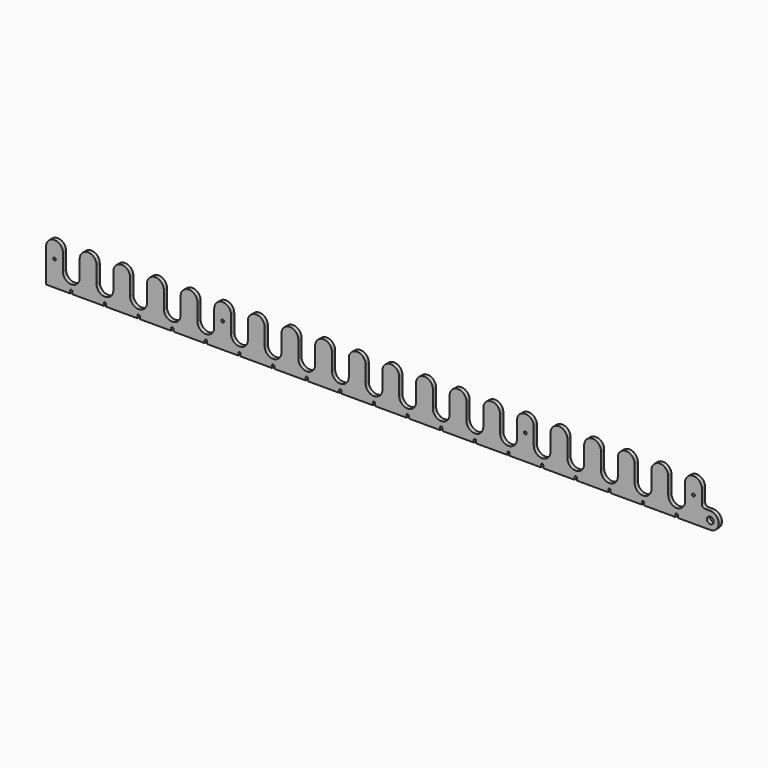
from build123d import *

# Parameters (mm, degrees)
F0_R     = 10
F0_R_2   = 4
F1_DEPTH = 12


with BuildPart() as f1:
    # F0 (on Front) → F1 (new body)
    with BuildSketch(Plane.XZ):
        with BuildLine():
            Line((-29.584797, 29.326556), (-29.584797, -70.673444))
            Line((-29.584797, -70.673444), (20.415203, -70.673444))
            Line((20.415203, -70.673444), (42.034195, -70.673444))
            Line((42.034195, -70.673444), (42.034195, -63.356569))
            ThreePointArc((42.034195, -63.356569), (45.534195, -59.856569), (49.034195, -63.356569))
            Line((49.034195, -63.356569), (49.034195, -70.673444))
            Line((49.034195, -70.673444), (70.415203, -70.673444))
            Line((70.415203, -70.673444), (120.415203, -70.673444))
            Line((120.415203, -70.673444), (142.034195, -70.673444))
            Line((142.034195, -70.673444), (142.034195, -63.356569))
            ThreePointArc((142.034195, -63.356569), (145.534195, -59.856569), (149.034195, -63.356569))
            Line((149.034195, -63.356569), (149.034195, -70.673444))
            Line((149.034195, -70.673444), (170.415203, -70.673444))
            Line((170.415203, -70.673444), (220.415203, -70.673444))
            Line((220.415203, -70.673444), (242.034195, -70.673444))
            Line((242.034195, -70.673444), (242.034195, -63.356569))
            ThreePointArc((242.034195, -63.356569), (245.534195, -59.856569), (249.034195, -63.356569))
            Line((249.034195, -63.356569), (249.034195, -70.673444))
            Line((249.034195, -70.673444), (270.415203, -70.673444))
            Line((270.415203, -70.673444), (320.415203, -70.673444))
            Line((320.415203, -70.673444), (342.034195, -70.673444))
            Line((342.034195, -70.673444), (342.034195, -63.356569))
            ThreePointArc((342.034195, -63.356569), (345.534195, -59.856569), (349.034195, -63.356569))
            Line((349.034195, -63.356569), (349.034195, -70.673444))
            Line((349.034195, -70.673444), (370.415203, -70.673444))
            Line((370.415203, -70.673444), (420.415203, -70.673444))
            Line((420.415203, -70.673444), (442.034195, -70.673444))
            Line((442.034195, -70.673444), (442.034195, -63.356569))
            ThreePointArc((442.034195, -63.356569), (445.534195, -59.856569), (449.034195, -63.356569))
            Line((449.034195, -63.356569), (449.034195, -70.673444))
            Line((449.034195, -70.673444), (470.415203, -70.673444))
            Line((470.415203, -70.673444), (520.415203, -70.673444))
            Line((520.415203, -70.673444), (542.034195, -70.673444))
            Line((542.034195, -70.673444), (542.034195, -63.356569))
            ThreePointArc((542.034195, -63.356569), (545.534195, -59.856569), (549.034195, -63.356569))
            Line((549.034195, -63.356569), (549.034195, -70.673444))
            Line((549.034195, -70.673444), (570.415203, -70.673444))
            Line((570.415203, -70.673444), (620.415203, -70.673444))
            Line((620.415203, -70.673444), (642.034195, -70.673444))
            Line((642.034195, -70.673444), (642.034195, -63.356569))
            ThreePointArc((642.034195, -63.356569), (645.534195, -59.856569), (649.034195, -63.356569))
            Line((649.034195, -63.356569), (649.034195, -70.673444))
            Line((649.034195, -70.673444), (670.415203, -70.673444))
            Line((670.415203, -70.673444), (720.415203, -70.673444))
            Line((720.415203, -70.673444), (742.034195, -70.673444))
            Line((742.034195, -70.673444), (742.034195, -63.356569))
            ThreePointArc((742.034195, -63.356569), (745.534195, -59.856569), (749.034195, -63.356569))
            Line((749.034195, -63.356569), (749.034195, -70.673444))
            Line((749.034195, -70.673444), (770.415203, -70.673444))
            Line((770.415203, -70.673444), (820.415203, -70.673444))
            Line((820.415203, -70.673444), (842.034195, -70.673444))
            Line((842.034195, -70.673444), (842.034195, -63.356569))
            ThreePointArc((842.034195, -63.356569), (845.534195, -59.856569), (849.034195, -63.356569))
            Line((849.034195, -63.356569), (849.034195, -70.673444))
            Line((849.034195, -70.673444), (870.415203, -70.673444))
            Line((870.415203, -70.673444), (920.415203, -70.673444))
            Line((920.415203, -70.673444), (942.034195, -70.673444))
            Line((942.034195, -70.673444), (942.034195, -63.356569))
            ThreePointArc((942.034195, -63.356569), (945.534195, -59.856569), (949.034195, -63.356569))
            Line((949.034195, -63.356569), (949.034195, -70.673444))
            Line((949.034195, -70.673444), (970.415203, -70.673444))
            Line((970.415203, -70.673444), (1020.415203, -70.673444))
            Line((1020.415203, -70.673444), (1042.034195, -70.673444))
            Line((1042.034195, -70.673444), (1042.034195, -63.356569))
            ThreePointArc((1042.034195, -63.356569), (1045.534195, -59.856569), (1049.034195, -63.356569))
            Line((1049.034195, -63.356569), (1049.034195, -70.673444))
            Line((1049.034195, -70.673444), (1070.415203, -70.673444))
            Line((1070.415203, -70.673444), (1120.415203, -70.673444))
            Line((1120.415203, -70.673444), (1142.034195, -70.673444))
            Line((1142.034195, -70.673444), (1142.034195, -63.356569))
            ThreePointArc((1142.034195, -63.356569), (1145.534195, -59.856569), (1149.034195, -63.356569))
            Line((1149.034195, -63.356569), (1149.034195, -70.673444))
            Line((1149.034195, -70.673444), (1170.415203, -70.673444))
            Line((1170.415203, -70.673444), (1220.415203, -70.673444))
            Line((1220.415203, -70.673444), (1242.034195, -70.673444))
            Line((1242.034195, -70.673444), (1242.034195, -63.356569))
            ThreePointArc((1242.034195, -63.356569), (1245.534195, -59.856569), (1249.034195, -63.356569))
            Line((1249.034195, -63.356569), (1249.034195, -70.673444))
            Line((1249.034195, -70.673444), (1270.415203, -70.673444))
            Line((1270.415203, -70.673444), (1320.415203, -70.673444))
            Line((1320.415203, -70.673444), (1342.034195, -70.673444))
            Line((1342.034195, -70.673444), (1342.034195, -63.356569))
            ThreePointArc((1342.034195, -63.356569), (1345.534195, -59.856569), (1349.034195, -63.356569))
            Line((1349.034195, -63.356569), (1349.034195, -70.673444))
            Line((1349.034195, -70.673444), (1370.415203, -70.673444))
            Line((1370.415203, -70.673444), (1420.415203, -70.673444))
            Line((1420.415203, -70.673444), (1442.034195, -70.673444))
            Line((1442.034195, -70.673444), (1442.034195, -63.356569))
            ThreePointArc((1442.034195, -63.356569), (1445.534195, -59.856569), (1449.034195, -63.356569))
            Line((1449.034195, -63.356569), (1449.034195, -70.673444))
            Line((1449.034195, -70.673444), (1470.415203, -70.673444))
            Line((1470.415203, -70.673444), (1520.415203, -70.673444))
            Line((1520.415203, -70.673444), (1542.034195, -70.673444))
            Line((1542.034195, -70.673444), (1542.034195, -63.356569))
            ThreePointArc((1542.034195, -63.356569), (1545.534195, -59.856569), (1549.034195, -63.356569))
            Line((1549.034195, -63.356569), (1549.034195, -70.673444))
            Line((1549.034195, -70.673444), (1570.415203, -70.673444))
            Line((1570.415203, -70.673444), (1620.415203, -70.673444))
            Line((1620.415203, -70.673444), (1642.034195, -70.673444))
            Line((1642.034195, -70.673444), (1642.034195, -63.356569))
            ThreePointArc((1642.034195, -63.356569), (1645.534195, -59.856569), (1649.034195, -63.356569))
            Line((1649.034195, -63.356569), (1649.034195, -70.673444))
            Line((1649.034195, -70.673444), (1670.415203, -70.673444))
            Line((1670.415203, -70.673444), (1720.415203, -70.673444))
            Line((1720.415203, -70.673444), (1742.034195, -70.673444))
            Line((1742.034195, -70.673444), (1742.034195, -63.356569))
            ThreePointArc((1742.034195, -63.356569), (1745.534195, -59.856569), (1749.034195, -63.356569))
            Line((1749.034195, -63.356569), (1749.034195, -70.673444))
            Line((1749.034195, -70.673444), (1770.415203, -70.673444))
            Line((1770.415203, -70.673444), (1820.415203, -70.673444))
            Line((1820.415203, -70.673444), (1842.034195, -70.673444))
            Line((1842.034195, -70.673444), (1842.034195, -63.356569))
            ThreePointArc((1842.034195, -63.356569), (1845.534195, -59.856569), (1849.034195, -63.356569))
            Line((1849.034195, -63.356569), (1849.034195, -70.673444))
            Line((1849.034195, -70.673444), (1870.415203, -70.673444))
            Line((1870.415203, -70.673444), (1920.415203, -70.673444))
            Line((1920.415203, -70.673444), (1945.415203, -70.673444))
            ThreePointArc((1945.415203, -70.673444), (1970.423145, -45.665502), (1945.415203, -20.65756))
            Line((1945.415203, -20.65756), (1930.415203, -20.65756))
            ThreePointArc((1930.415203, -20.65756), (1923.344135, -17.728628), (1920.415203, -10.65756))
            Line((1920.415203, -10.65756), (1920.415203, 29.326556))
            ThreePointArc((1920.415203, 29.326556), (1895.415203, 54.326556), (1870.415203, 29.326556))
            Line((1870.415203, 29.326556), (1870.415203, -20.673444))
            ThreePointArc((1870.415203, -20.673444), (1845.415203, -45.673444), (1820.415203, -20.673444))
            Line((1820.415203, -20.673444), (1820.415203, 29.326556))
            ThreePointArc((1820.415203, 29.326556), (1795.415203, 54.326556), (1770.415203, 29.326556))
            Line((1770.415203, 29.326556), (1770.415203, -20.673444))
            ThreePointArc((1770.415203, -20.673444), (1745.415203, -45.673444), (1720.415203, -20.673444))
            Line((1720.415203, -20.673444), (1720.415203, 29.326556))
            ThreePointArc((1720.415203, 29.326556), (1695.415203, 54.326556), (1670.415203, 29.326556))
            Line((1670.415203, 29.326556), (1670.415203, -20.673444))
            ThreePointArc((1670.415203, -20.673444), (1645.415203, -45.673444), (1620.415203, -20.673444))
            Line((1620.415203, -20.673444), (1620.415203, 29.326556))
            ThreePointArc((1620.415203, 29.326556), (1595.415203, 54.326556), (1570.415203, 29.326556))
            Line((1570.415203, 29.326556), (1570.415203, -20.673444))
            ThreePointArc((1570.415203, -20.673444), (1545.415203, -45.673444), (1520.415203, -20.673444))
            Line((1520.415203, -20.673444), (1520.415203, 29.326556))
            ThreePointArc((1520.415203, 29.326556), (1495.415203, 54.326556), (1470.415203, 29.326556))
            Line((1470.415203, 29.326556), (1470.415203, -20.673444))
            ThreePointArc((1470.415203, -20.673444), (1445.415203, -45.673444), (1420.415203, -20.673444))
            Line((1420.415203, -20.673444), (1420.415203, 29.326556))
            ThreePointArc((1420.415203, 29.326556), (1395.415203, 54.326556), (1370.415203, 29.326556))
            Line((1370.415203, 29.326556), (1370.415203, -20.673444))
            ThreePointArc((1370.415203, -20.673444), (1345.415203, -45.673444), (1320.415203, -20.673444))
            Line((1320.415203, -20.673444), (1320.415203, 29.326556))
            ThreePointArc((1320.415203, 29.326556), (1295.415203, 54.326556), (1270.415203, 29.326556))
            Line((1270.415203, 29.326556), (1270.415203, -20.673444))
            ThreePointArc((1270.415203, -20.673444), (1245.415203, -45.673444), (1220.415203, -20.673444))
            Line((1220.415203, -20.673444), (1220.415203, 29.326556))
            ThreePointArc((1220.415203, 29.326556), (1195.415203, 54.326556), (1170.415203, 29.326556))
            Line((1170.415203, 29.326556), (1170.415203, -20.673444))
            ThreePointArc((1170.415203, -20.673444), (1145.415203, -45.673444), (1120.415203, -20.673444))
            Line((1120.415203, -20.673444), (1120.415203, 29.326556))
            ThreePointArc((1120.415203, 29.326556), (1095.415203, 54.326556), (1070.415203, 29.326556))
            Line((1070.415203, 29.326556), (1070.415203, -20.673444))
            ThreePointArc((1070.415203, -20.673444), (1045.415203, -45.673444), (1020.415203, -20.673444))
            Line((1020.415203, -20.673444), (1020.415203, 29.326556))
            ThreePointArc((1020.415203, 29.326556), (995.415203, 54.326556), (970.415203, 29.326556))
            Line((970.415203, 29.326556), (970.415203, -20.673444))
            ThreePointArc((970.415203, -20.673444), (945.415203, -45.673444), (920.415203, -20.673444))
            Line((920.415203, -20.673444), (920.415203, 29.326556))
            ThreePointArc((920.415203, 29.326556), (895.415203, 54.326556), (870.415203, 29.326556))
            Line((870.415203, 29.326556), (870.415203, -20.673444))
            ThreePointArc((870.415203, -20.673444), (845.415203, -45.673444), (820.415203, -20.673444))
            Line((820.415203, -20.673444), (820.415203, 29.326556))
            ThreePointArc((820.415203, 29.326556), (795.415203, 54.326556), (770.415203, 29.326556))
            Line((770.415203, 29.326556), (770.415203, -20.673444))
            ThreePointArc((770.415203, -20.673444), (745.415203, -45.673444), (720.415203, -20.673444))
            Line((720.415203, -20.673444), (720.415203, 29.326556))
            ThreePointArc((720.415203, 29.326556), (695.415203, 54.326556), (670.415203, 29.326556))
            Line((670.415203, 29.326556), (670.415203, -20.673444))
            ThreePointArc((670.415203, -20.673444), (645.415203, -45.673444), (620.415203, -20.673444))
            Line((620.415203, -20.673444), (620.415203, 29.326556))
            ThreePointArc((620.415203, 29.326556), (595.415203, 54.326556), (570.415203, 29.326556))
            Line((570.415203, 29.326556), (570.415203, -20.673444))
            ThreePointArc((570.415203, -20.673444), (545.415203, -45.673444), (520.415203, -20.673444))
            Line((520.415203, -20.673444), (520.415203, 29.326556))
            ThreePointArc((520.415203, 29.326556), (495.415203, 54.326556), (470.415203, 29.326556))
            Line((470.415203, 29.326556), (470.415203, -20.673444))
            ThreePointArc((470.415203, -20.673444), (445.415203, -45.673444), (420.415203, -20.673444))
            Line((420.415203, -20.673444), (420.415203, 29.326556))
            ThreePointArc((420.415203, 29.326556), (395.415203, 54.326556), (370.415203, 29.326556))
            Line((370.415203, 29.326556), (370.415203, -20.673444))
            ThreePointArc((370.415203, -20.673444), (345.415203, -45.673444), (320.415203, -20.673444))
            Line((320.415203, -20.673444), (320.415203, 29.326556))
            ThreePointArc((320.415203, 29.326556), (295.415203, 54.326556), (270.415203, 29.326556))
            Line((270.415203, 29.326556), (270.415203, -20.673444))
            ThreePointArc((270.415203, -20.673444), (245.415203, -45.673444), (220.415203, -20.673444))
            Line((220.415203, -20.673444), (220.415203, 29.326556))
            ThreePointArc((220.415203, 29.326556), (195.415203, 54.326556), (170.415203, 29.326556))
            Line((170.415203, 29.326556), (170.415203, -20.673444))
            ThreePointArc((170.415203, -20.673444), (145.415203, -45.673444), (120.415203, -20.673444))
            Line((120.415203, -20.673444), (120.415203, 29.326556))
            ThreePointArc((120.415203, 29.326556), (95.415203, 54.326556), (70.415203, 29.326556))
            Line((70.415203, 29.326556), (70.415203, -20.673444))
            ThreePointArc((70.415203, -20.673444), (45.415203, -45.673444), (20.415203, -20.673444))
            Line((20.415203, -20.673444), (20.415203, 29.326556))
            ThreePointArc((20.415203, 29.326556), (-4.584797, 54.326556), (-29.584797, 29.326556))
        make_face()
        with Locations((1945.415203, -45.665502)):
            Circle(F0_R, mode=Mode.SUBTRACT)
        with Locations((-4.584797, 4.326556)):
            Circle(F0_R_2, mode=Mode.SUBTRACT)
        with Locations((495.415203, 4.326556)):
            Circle(F0_R_2, mode=Mode.SUBTRACT)
        with Locations((1395.415203, 4.326556)):
            Circle(F0_R_2, mode=Mode.SUBTRACT)
        with Locations((1895.415203, 4.326556)):
            Circle(F0_R_2, mode=Mode.SUBTRACT)
    extrude(amount=F1_DEPTH)


solid = f1.part
